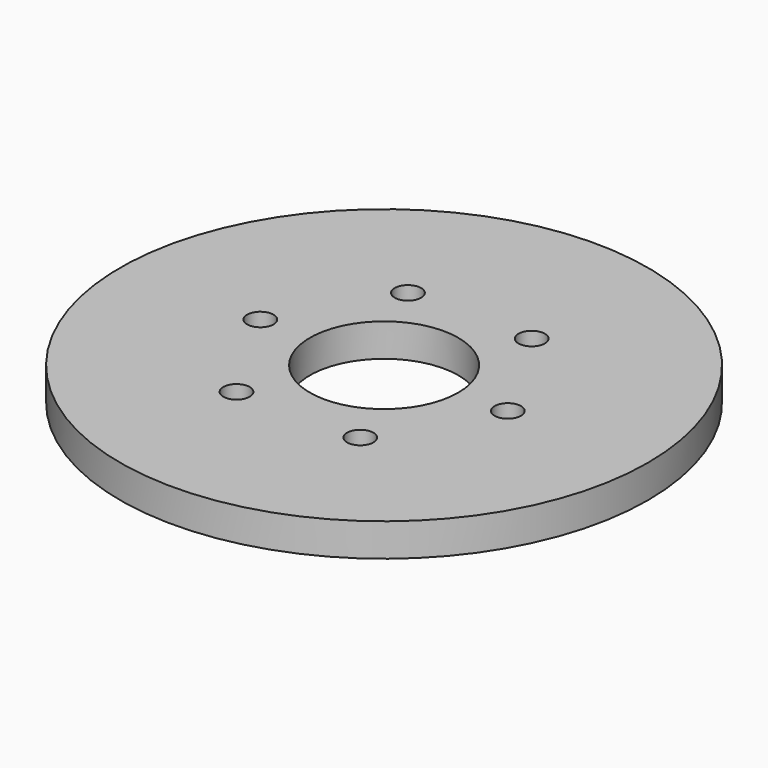
from build123d import *

# Parameters (mm, degrees)
F0_R     = 50.8
F0_R_2   = 2.54
F0_R_3   = 14.2875
F1_DEPTH = 3.175


with BuildPart() as f1:
    # F0 (on Top) → F1 (new body, symmetric)
    with BuildSketch(Plane.XY):
        Circle(F0_R)
        with Locations((-11.90625, -20.6222299276)):
            Circle(F0_R_2, mode=Mode.SUBTRACT)
        with Locations((-23.8125, 0)):
            Circle(F0_R_2, mode=Mode.SUBTRACT)
        Circle(F0_R_3, mode=Mode.SUBTRACT)
        with Locations((11.90625, -20.6222299276)):
            Circle(F0_R_2, mode=Mode.SUBTRACT)
        with Locations((23.8125, 0)):
            Circle(F0_R_2, mode=Mode.SUBTRACT)
        with Locations((-11.90625, 20.6222299276)):
            Circle(F0_R_2, mode=Mode.SUBTRACT)
        with Locations((11.90625, 20.6222299276)):
            Circle(F0_R_2, mode=Mode.SUBTRACT)
    extrude(amount=F1_DEPTH, both=True)


solid = f1.part
